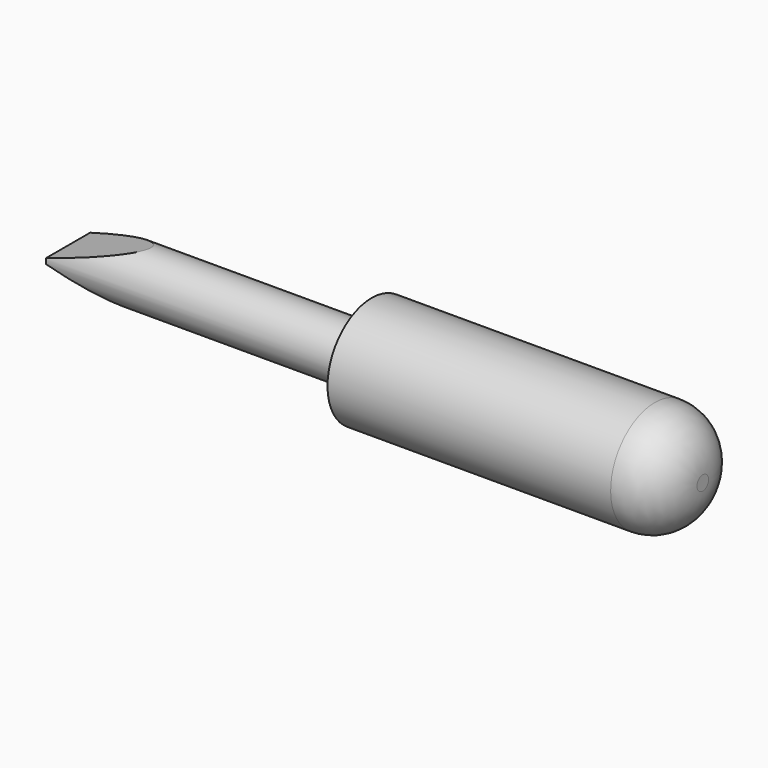
from build123d import *

# Parameters (mm, degrees)
F0_W     = 19.05
F0_H     = 0.635
F2_DEPTH = 12.7
F3_R     = 11.037784


with BuildPart() as f1:
    # F0 (on Front) → F1 (revolve)
    with BuildSketch(Plane.XZ):
        Polygon((0, 0), (0, 6.35), (-50.8, 6.35), (-50.8, 0.635), (-50.8, 0), align=None)
        Polygon((76.2, 12.7), (0, 12.7), (0, 6.35), (0, 0), (76.2, 0), align=None)
        Polygon((-50.8, 0.635), (-50.8, 6.35), (-69.85, 0.635), align=None)
        with Locations((-60.325, 0.3175)):
            Rectangle(F0_W, F0_H)
        Polygon((-69.85, 0.635), (-50.8, 6.35), (-69.85, 6.35), align=None)
    revolve(axis=Axis((3.175, 0, 0), (-1, 0, 0)))

    # F0 (on Front) → F2 (cut, symmetric)
    with BuildSketch(Plane.XZ):
        Polygon((-69.85, 0.635), (-50.8, 6.35), (-69.85, 6.35), align=None)
        Polygon((-69.85, -6.35), (-50.8, -6.35), (-69.85, -0.635), align=None)
    extrude(amount=F2_DEPTH, both=True, mode=Mode.SUBTRACT)

    # F3
    f3_edges = [f1.edges().sort_by_distance(p)[0] for p in [
        (76.2, 0, -12.7),
    ]]
    fillet(f3_edges, radius=F3_R)


solid = f1.part
